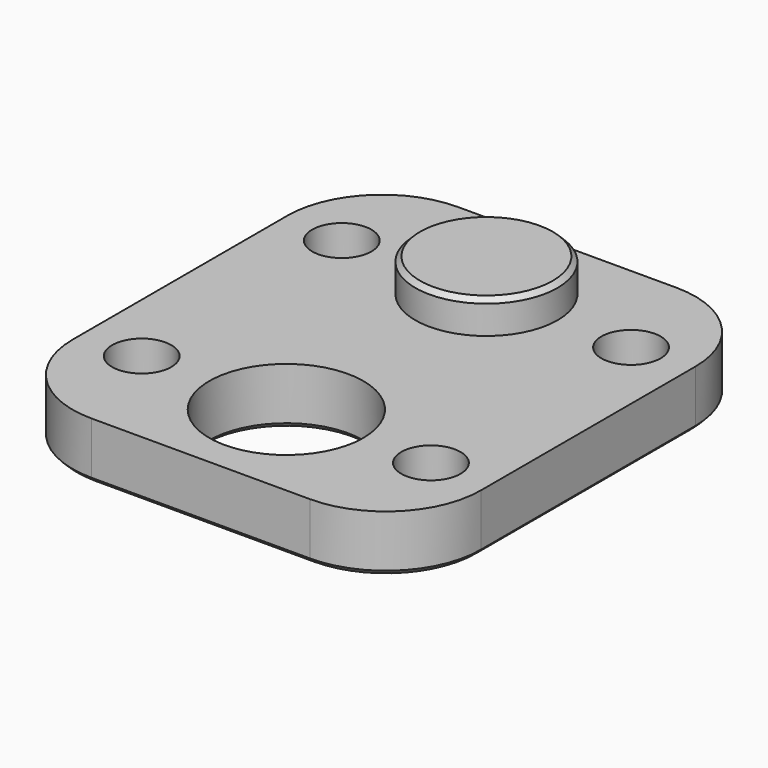
from build123d import *

# Parameters (mm, degrees)
F0_R     = 1.25
F0_R_2   = 3
F0_R_3   = 3.25
F1_DEPTH = 2.4
F2_DEPTH = 1.4
F3_SIZE  = 0.2
F4_SIZE  = 0.2


with BuildPart() as f1:
    # F0 (on Top) → F1 (new body)
    with BuildSketch(Plane.XY):
        with BuildLine():
            ThreePointArc((8.61, 0.26), (7.4384271247, 3.0884271247), (4.61, 4.26))
            Line((4.61, 4.26), (-4.61, 4.26))
            ThreePointArc((-4.61, 4.26), (-7.4384271247, 3.0884271247), (-8.61, 0.26))
            Line((-8.61, 0.26), (-8.61, -4.26))
            Line((-8.61, -4.26), (8.61, -4.26))
            Line((8.61, -4.26), (8.61, 0.26))
        make_face()
        with Locations((-6.1, 0)):
            Circle(F0_R, mode=Mode.SUBTRACT)
        Circle(F0_R_2, mode=Mode.SUBTRACT)
        with Locations((6.1, 0)):
            Circle(F0_R, mode=Mode.SUBTRACT)
        with BuildLine():
            Line((8.61, -11.06), (8.61, -4.26))
            Line((8.61, -4.26), (-8.61, -4.26))
            Line((-8.61, -4.26), (-8.61, -11.06))
            ThreePointArc((-8.61, -11.06), (-7.4384271247, -13.8884271247), (-4.61, -15.06))
            Line((-4.61, -15.06), (4.61, -15.06))
            ThreePointArc((4.61, -15.06), (7.4384271247, -13.8884271247), (8.61, -11.06))
        make_face()
        with Locations((-6.1, -10.55)):
            Circle(F0_R, mode=Mode.SUBTRACT)
        with Locations((0, -10.55)):
            Circle(F0_R_3, mode=Mode.SUBTRACT)
        with Locations((6.1, -10.55)):
            Circle(F0_R, mode=Mode.SUBTRACT)
        Circle(F0_R_2)
        with BuildLine():
            Line((8.61, -11.06), (8.61, -4.26))
            Line((8.61, -4.26), (-8.61, -4.26))
            Line((-8.61, -4.26), (-8.61, -11.06))
            ThreePointArc((-8.61, -11.06), (-7.4384271247, -13.8884271247), (-4.61, -15.06))
            Line((-4.61, -15.06), (4.61, -15.06))
            ThreePointArc((4.61, -15.06), (7.4384271247, -13.8884271247), (8.61, -11.06))
        make_face()
        with Locations((-6.1, -10.55)):
            Circle(F0_R, mode=Mode.SUBTRACT)
        with Locations((0, -10.55)):
            Circle(F0_R_3, mode=Mode.SUBTRACT)
        with Locations((6.1, -10.55)):
            Circle(F0_R, mode=Mode.SUBTRACT)
    extrude(amount=-F1_DEPTH)

    # F0 (on Top) → F2 (join)
    with BuildSketch(Plane.XY):
        Circle(F0_R_2)
    extrude(amount=F2_DEPTH)

    # F3
    f3_edges = [f1.edges().sort_by_distance(p)[0] for p in [
        (7.438427, 3.088427, -2.4),
        (0, 4.26, -2.4),
        (-7.438427, 3.088427, -2.4),
        (-8.61, -5.4, -2.4),
        (-7.438427, -13.888427, -2.4),
        (0, -15.06, -2.4),
        (7.438427, -13.888427, -2.4),
        (8.61, -5.4, -2.4),
        (-7.35, 0, -2.4),
        (4.85, 0, -2.4),
        (4.85, -10.55, -2.4),
        (-7.35, -10.55, -2.4),
        (-3.25, -10.55, -2.4),
    ]]
    chamfer(f3_edges, length=F3_SIZE)

    # F4
    f4_edges = [f1.edges().sort_by_distance(p)[0] for p in [
        (-3, 0, 1.4),
    ]]
    chamfer(f4_edges, length=F4_SIZE)


solid = f1.part
